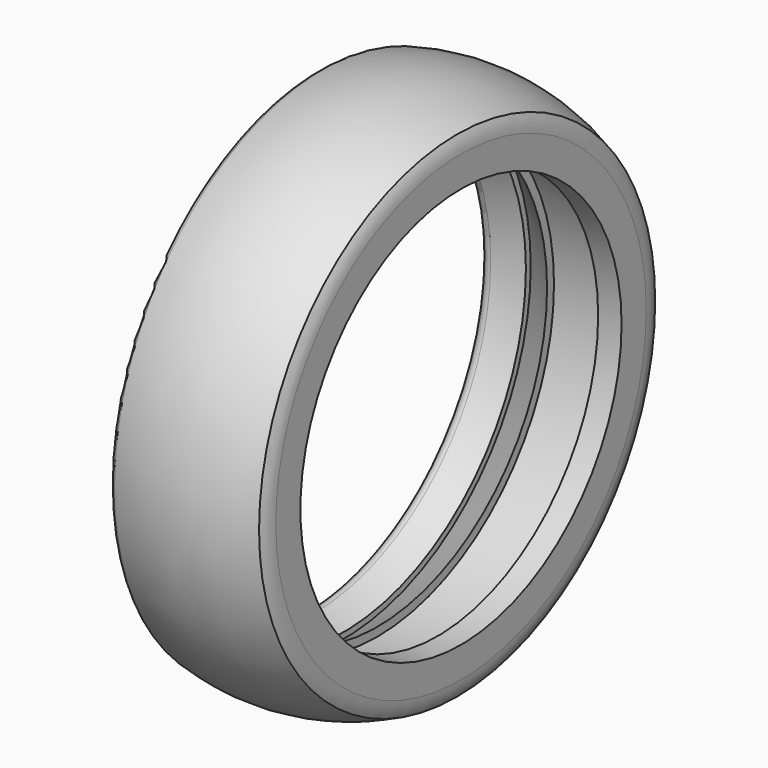
from build123d import *


with BuildPart() as part:
    # Sketch → Revolution (revolve)
    with BuildSketch(Plane.XY):
        with BuildLine():
            ThreePointArc((8.344478, 18.5), (3.433557, 19.890796), (-1.655522, 19.5))
            ThreePointArc((-1.655522, 19.5), (-1.971268, 19.251767), (-2.002534, 18.851345))
            ThreePointArc((-2.620152, 17.8), (-2.068179, 18.182825), (-2.002534, 18.851345))
            ThreePointArc((-2.620152, 17.8), (-3.145562, 17.032288), (-2.365366, 16.5256))
            Line((-2.365366, 16.5256), (-0.115366, 17))
            Line((-0.115366, 17), (-0.115366, 17.450876))
            Line((-0.115366, 17.450876), (2.384634, 15.850876))
            Line((2.384634, 15.850876), (2.384634, 16.5))
            Line((2.384634, 16.5), (6.884634, 16.5))
            Line((6.884634, 16.5), (6.884634, 15))
            Line((6.884634, 15), (8.634634, 15))
            Line((8.634634, 15), (8.634634, 17.3))
            ThreePointArc((8.634634, 17.3), (8.561065, 17.917291), (8.344478, 18.5))
        make_face()
    revolve(axis=Axis((0, 0, 0), (1, 0, 0)))


solid = part.part
